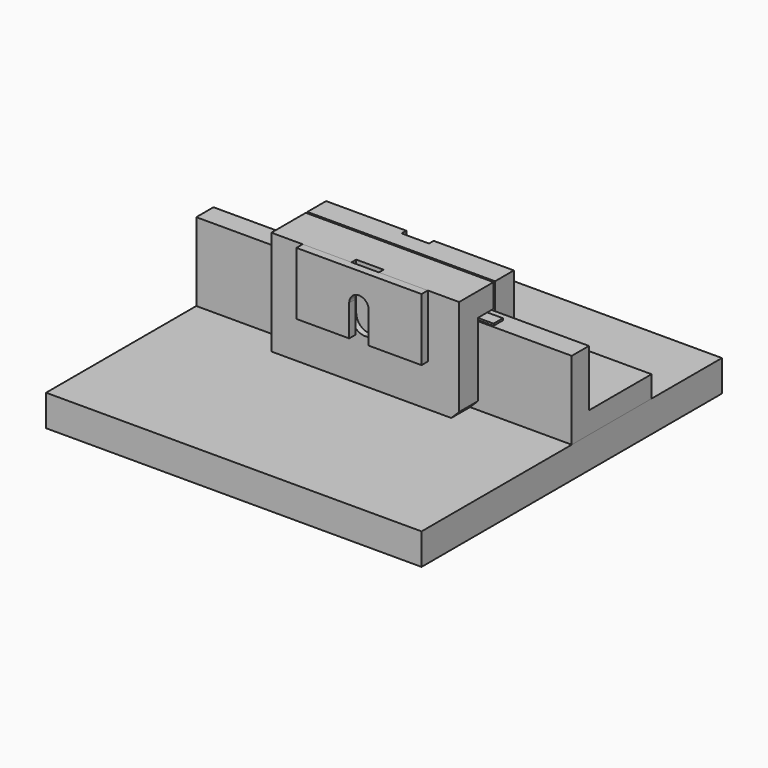
from build123d import *

# Parameters (mm, degrees)
F1_DEPTH        = 152.4
F2_W            = 304.8
F2_H            = 304.8
F3_DEPTH        = 25.4
F4_W            = 152.4
F4_H            = 84.93125
F5_DEPTH        = 19.05
F6_W            = 152.4
F6_H            = 19.05
F7_DEPTH        = 15.875
F8_W            = 152.4
F8_H            = 50.8
F9_DEPTH        = 19.05
F10_SIZE        = 6.35
F11_W           = 50.8
F11_H           = 9.525
F12_DEPTH       = 1.5875
F14_D           = 3.7973
F14_CSINK_D     = 7.7978
F14_CSINK_ANGLE = 82
F16_DEPTH       = 4.7625
F17_W           = 11.1125
F17_H           = 38.1
F18_DEPTH       = 4.7625
F20_DEPTH       = 6.35


with BuildPart() as f1:
    # F0 (on Right) → F1 (new body, symmetric)
    with BuildSketch(Plane.YZ):
        Polygon((0, 63.5), (0, 0), (80.9625, 0), (80.9625, 17.4625), (17.4625, 17.4625), (17.4625, 63.5), align=None)
    extrude(amount=F1_DEPTH, both=True)


with BuildPart() as f3:
    # F2 (on face) → F3 (new body)
    with BuildSketch(Plane(origin=(0, 0, 0), x_dir=(1, 0, 0), z_dir=(0, 0, -1))):
        Rectangle(F2_W, F2_H)
    extrude(amount=F3_DEPTH)


with BuildPart() as f5:
    # F4 (on face) → F5 (new body)
    with BuildSketch(Plane.XZ):
        with Locations((0, 42.465625)):
            Rectangle(F4_W, F4_H)
    extrude(amount=F5_DEPTH)

    # F6 (on face) → F7 (join)
    with BuildSketch(Plane(origin=(0, 0, 0), x_dir=(-1, 0, 0), z_dir=(0, 1, 0))):
        with Locations((0, 75.40625)):
            Rectangle(F6_W, F6_H)
    extrude(amount=F7_DEPTH)

    # F10
    f10_edges = [f5.edges().sort_by_distance(p)[0] for p in [
        (76.2, -9.525, 0),
    ]]
    chamfer(f10_edges, length=F10_SIZE)

    # F15 (on face) → F16 (cut)
    with BuildSketch(Plane.XZ.offset(19.05)):
        with BuildLine():
            Line((11.1125, 84.93125), (-11.1125, 84.93125))
            Line((-11.1125, 84.93125), (-11.1125, 46.83125))
            ThreePointArc((-11.1125, 46.83125), (0, 35.71875), (11.1125, 46.83125))
            Line((11.1125, 46.83125), (11.1125, 84.93125))
        make_face()
    extrude(amount=-F16_DEPTH, mode=Mode.SUBTRACT)


with BuildPart() as f9:
    # F8 (on face) → F9 (new body)
    with BuildSketch(Plane(origin=(0, 17.4625, 0), x_dir=(-1, 0, 0), z_dir=(0, 1, 0))):
        with Locations((0, 59.53125)):
            Rectangle(F8_W, F8_H)
    extrude(amount=F9_DEPTH)

    # F17 (on face) → F18 (cut)
    with BuildSketch(Plane(origin=(0, 36.5125, 0), x_dir=(-1, 0, 0), z_dir=(0, 1, 0))):
        with Locations((5.55625, 65.88125)):
            Rectangle(F17_W, F17_H)
        with Locations((-5.55625, 65.88125)):
            Rectangle(F17_W, F17_H)
        with BuildLine():
            ThreePointArc((0, 35.71875), (7.8577241059, 38.9735258941), (11.1125, 46.83125))
            Line((11.1125, 46.83125), (0, 46.83125))
            Line((0, 46.83125), (0, 35.71875))
        make_face()
        with BuildLine():
            Line((0, 35.71875), (0, 46.83125))
            Line((0, 46.83125), (-11.1125, 46.83125))
            ThreePointArc((-11.1125, 46.83125), (-7.8577241059, 38.9735258941), (0, 35.71875))
        make_face()
    extrude(amount=-F18_DEPTH, mode=Mode.SUBTRACT)


with BuildPart() as f12:
    # F11 (on face) → F12 (new body)
    with BuildSketch(Plane(origin=(0, 0, 65.88125), x_dir=(1, 0, 0), z_dir=(0, 0, -1))):
        with Locations((63.5, -4.7625)):
            Rectangle(F11_W, F11_H)
    extrude(amount=F12_DEPTH)

    # F14 (through all)
    with Locations(Plane(origin=(0, 0, 64.29375), x_dir=(1, 0, 0), z_dir=(0, 0, -1))):
        with Locations((42.8625, -4.7625), (68.2625, -4.7625)):
            CounterSinkHole(F14_D / 2, F14_CSINK_D / 2, counter_sink_angle=F14_CSINK_ANGLE)


with BuildPart() as f20:
    # F19 (on face) → F20 (new body)
    with BuildSketch(Plane.XZ.offset(19.05)):
        with BuildLine():
            Line((50.8, 34.13125), (50.8, 84.93125))
            Line((50.8, 84.93125), (-50.8, 84.93125))
            Line((-50.8, 84.93125), (-50.8, 34.13125))
            Line((-50.8, 34.13125), (-7.9375, 34.13125))
            Line((-7.9375, 34.13125), (-7.9375, 59.53125))
            ThreePointArc((-7.9375, 59.53125), (0, 67.46875), (7.9375, 59.53125))
            Line((7.9375, 59.53125), (7.9375, 34.13125))
            Line((7.9375, 34.13125), (50.8, 34.13125))
        make_face()
    extrude(amount=F20_DEPTH)


solid = Compound([f1.part, f3.part, f5.part, f9.part, f12.part, f20.part])
